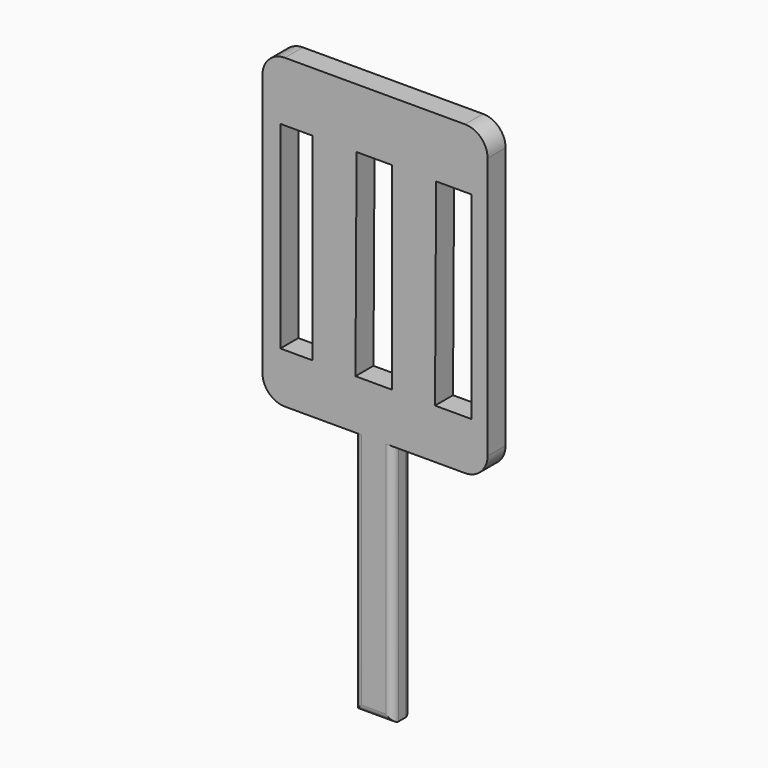
from build123d import *

# Parameters (mm, degrees)
F0_W     = 8.723831
F0_H     = 55.245
F1_DEPTH = 5.08
F2_R     = 5.08
F3_R     = 5.08
F4_R     = 1.5875


with BuildPart() as f1:
    # F0 (on Front) → F1 (new body)
    with BuildSketch(Plane.XZ):
        Polygon((-25.729871, 69.29215), (-25.729871, 0), (-4.985048, 0), (3.738783, 0), (25.070129, 0), (25.070129, 69.29215), align=None)
        Polygon((-21.684954, 11.216355), (-21.684954, 51.844489), (-21.684954, 55.832524), (-14.456635, 55.832524), (-14.456635, 11.216355), align=None, mode=Mode.SUBTRACT)
        Polygon((-4.735794, 11.216355), (-4.486542, 55.832524), (3.489533, 55.832524), (3.489533, 11.216355), align=None, mode=Mode.SUBTRACT)
        Polygon((13.210376, 11.216355), (13.459626, 55.832524), (21.4357, 55.832524), (21.4357, 11.216355), align=None, mode=Mode.SUBTRACT)
        with Locations((-0.623133, -27.6225)):
            Rectangle(F0_W, F0_H)
    extrude(amount=F1_DEPTH)

    # F2
    f2_edges = [f1.edges().sort_by_distance(p)[0] for p in [
        (-25.729871, -2.54, 69.29215),
        (25.070129, -2.54, 69.29215),
    ]]
    fillet(f2_edges, radius=F2_R)

    # F3
    f3_edges = [f1.edges().sort_by_distance(p)[0] for p in [
        (-25.729871, -2.54, 0),
        (25.070129, -2.54, 0),
    ]]
    fillet(f3_edges, radius=F3_R)

    # F4
    f4_edges = [f1.edges().sort_by_distance(p)[0] for p in [
        (3.738783, 0, -27.6225),
        (-0.623132, 0, -55.245),
        (-4.985048, 0, -27.6225),
        (3.738783, -5.08, -27.6225),
        (-4.985048, -5.08, -27.6225),
        (-0.623132, -5.08, -55.245),
    ]]
    fillet(f4_edges, radius=F4_R)


solid = f1.part
